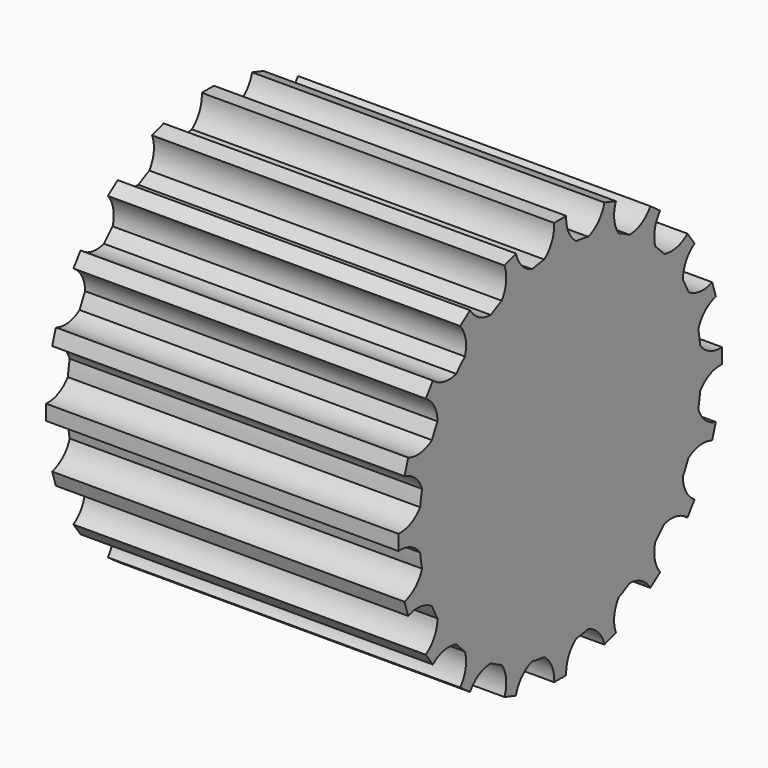
from build123d import *

# Parameters (mm, degrees)
F0_DEPTH = 152.4


with BuildPart() as f0:
    # F1 (on Right) → F0 (new body)
    with BuildSketch(Plane.YZ):
        with BuildLine():
            ThreePointArc((75.710623, -8.622155), (76.077557, -4.318016), (76.2, 0))
            ThreePointArc((76.2, 0), (76.077557, 4.318016), (75.710623, 8.622155))
            ThreePointArc((75.710623, 8.622155), (75.261852, 11.920306), (74.669474, 15.195713))
            ThreePointArc((74.669474, 15.195713), (72.470507, 23.547095), (69.340689, 31.596025))
            ThreePointArc((69.340689, 31.596025), (67.894697, 34.594076), (66.319156, 37.526118))
            ThreePointArc((66.319156, 37.526118), (61.647095, 44.789236), (56.183205, 51.477057))
            ThreePointArc((56.183205, 51.477057), (53.881537, 53.881537), (51.477057, 56.183205))
            ThreePointArc((51.477057, 56.183205), (44.789236, 61.647095), (37.526118, 66.319156))
            ThreePointArc((37.526118, 66.319156), (34.594076, 67.894697), (31.596025, 69.340689))
            ThreePointArc((31.596025, 69.340689), (23.547095, 72.470507), (15.195713, 74.669474))
            ThreePointArc((15.195713, 74.669474), (11.920306, 75.261852), (8.622155, 75.710623))
            ThreePointArc((8.622155, 75.710623), (0, 76.2), (-8.622155, 75.710623))
            ThreePointArc((-8.622155, 75.710623), (-11.920306, 75.261852), (-15.195713, 74.669474))
            ThreePointArc((-15.195713, 74.669474), (-23.547095, 72.470507), (-31.596025, 69.340689))
            ThreePointArc((-31.596025, 69.340689), (-34.594076, 67.894697), (-37.526118, 66.319156))
            ThreePointArc((-37.526118, 66.319156), (-44.789236, 61.647095), (-51.477057, 56.183205))
            ThreePointArc((-51.477057, 56.183205), (-53.881537, 53.881537), (-56.183205, 51.477057))
            ThreePointArc((-56.183205, 51.477057), (-61.647095, 44.789236), (-66.319156, 37.526118))
            ThreePointArc((-66.319156, 37.526118), (-67.894697, 34.594076), (-69.340689, 31.596025))
            ThreePointArc((-69.340689, 31.596025), (-72.470507, 23.547095), (-74.669474, 15.195713))
            ThreePointArc((-74.669474, 15.195713), (-75.261852, 11.920306), (-75.710623, 8.622155))
            ThreePointArc((-75.710623, 8.622155), (-76.2, 0), (-75.710623, -8.622155))
            ThreePointArc((-75.710623, -8.622155), (-75.261852, -11.920306), (-74.669474, -15.195713))
            ThreePointArc((-74.669474, -15.195713), (-72.470507, -23.547095), (-69.340689, -31.596025))
            ThreePointArc((-69.340689, -31.596025), (-67.894697, -34.594076), (-66.319156, -37.526118))
            ThreePointArc((-66.319156, -37.526118), (-61.647095, -44.789236), (-56.183205, -51.477057))
            ThreePointArc((-56.183205, -51.477057), (-53.881537, -53.881537), (-51.477057, -56.183205))
            ThreePointArc((-51.477057, -56.183205), (-44.789236, -61.647095), (-37.526118, -66.319156))
            ThreePointArc((-37.526118, -66.319156), (-34.594076, -67.894697), (-31.596025, -69.340689))
            ThreePointArc((-31.596025, -69.340689), (-23.547095, -72.470507), (-15.195713, -74.669474))
            ThreePointArc((-15.195713, -74.669474), (-11.920306, -75.261852), (-8.622155, -75.710623))
            ThreePointArc((-8.622155, -75.710623), (0, -76.2), (8.622155, -75.710623))
            ThreePointArc((8.622155, -75.710623), (11.920306, -75.261852), (15.195713, -74.669474))
            ThreePointArc((15.195713, -74.669474), (23.547095, -72.470507), (31.596025, -69.340689))
            ThreePointArc((31.596025, -69.340689), (34.594076, -67.894697), (37.526118, -66.319156))
            ThreePointArc((37.526118, -66.319156), (44.789236, -61.647095), (51.477057, -56.183205))
            ThreePointArc((51.477057, -56.183205), (53.881537, -53.881537), (56.183205, -51.477057))
            ThreePointArc((56.183205, -51.477057), (61.647095, -44.789236), (66.319156, -37.526118))
            ThreePointArc((66.319156, -37.526118), (67.894697, -34.594076), (69.340689, -31.596025))
            ThreePointArc((69.340689, -31.596025), (72.470507, -23.547095), (74.669474, -15.195713))
            ThreePointArc((74.669474, -15.195713), (75.261852, -11.920306), (75.710623, -8.622155))
        make_face()
        with BuildLine():
            ThreePointArc((-31.596025, 69.340689), (-23.547095, 72.470507), (-15.195713, 74.669474))
            ThreePointArc((-15.195713, 74.669474), (-20.764473, 78.314179), (-23.898246, 84.185671))
            Line((-23.898246, 84.185671), (-30.149009, 82.154676))
            ThreePointArc((-30.149009, 82.154676), (-29.233108, 75.562553), (-31.596025, 69.340689))
        make_face()
        with BuildLine():
            ThreePointArc((-51.477057, 56.183205), (-44.789236, 61.647095), (-37.526118, 66.319156))
            ThreePointArc((-37.526118, 66.319156), (-43.948599, 68.064635), (-48.743386, 72.680367))
            Line((-48.743386, 72.680367), (-54.060602, 68.817184))
            ThreePointArc((-54.060602, 68.817184), (-51.152451, 62.830731), (-51.477057, 56.183205))
        make_face()
        with BuildLine():
            ThreePointArc((-66.319156, 37.526118), (-61.647095, 44.789236), (-56.183205, 51.477057))
            ThreePointArc((-56.183205, 51.477057), (-62.830731, 51.152451), (-68.817184, 54.060602))
            Line((-68.817184, 54.060602), (-72.680367, 48.743386))
            ThreePointArc((-72.680367, 48.743386), (-68.064635, 43.948599), (-66.319156, 37.526118))
        make_face()
        with BuildLine():
            ThreePointArc((-74.669474, 15.195713), (-72.470507, 23.547095), (-69.340689, 31.596025))
            ThreePointArc((-69.340689, 31.596025), (-75.562553, 29.233108), (-82.154676, 30.149009))
            Line((-82.154676, 30.149009), (-84.185671, 23.898246))
            ThreePointArc((-84.185671, 23.898246), (-78.314179, 20.764473), (-74.669474, 15.195713))
        make_face()
        with BuildLine():
            ThreePointArc((-75.710623, -8.622155), (-76.2, 0), (-75.710623, 8.622155))
            ThreePointArc((-75.710623, 8.622155), (-80.897785, 4.452225), (-87.450296, 3.28622))
            Line((-87.450296, 3.28622), (-87.450296, -3.28622))
            ThreePointArc((-87.450296, -3.28622), (-80.897785, -4.452225), (-75.710623, -8.622155))
        make_face()
        with BuildLine():
            ThreePointArc((-82.154676, -30.149009), (-75.562553, -29.233108), (-69.340689, -31.596025))
            ThreePointArc((-69.340689, -31.596025), (-72.470507, -23.547095), (-74.669474, -15.195713))
            ThreePointArc((-74.669474, -15.195713), (-78.314179, -20.764473), (-84.185671, -23.898246))
            Line((-84.185671, -23.898246), (-82.154676, -30.149009))
        make_face()
        with BuildLine():
            ThreePointArc((-68.817184, -54.060602), (-62.830731, -51.152451), (-56.183205, -51.477057))
            ThreePointArc((-56.183205, -51.477057), (-61.647095, -44.789236), (-66.319156, -37.526118))
            ThreePointArc((-66.319156, -37.526118), (-68.064635, -43.948599), (-72.680367, -48.743386))
            Line((-72.680367, -48.743386), (-68.817184, -54.060602))
        make_face()
        with BuildLine():
            ThreePointArc((-48.743386, -72.680367), (-43.948599, -68.064635), (-37.526118, -66.319156))
            ThreePointArc((-37.526118, -66.319156), (-44.789236, -61.647095), (-51.477057, -56.183205))
            ThreePointArc((-51.477057, -56.183205), (-51.152451, -62.830731), (-54.060602, -68.817184))
            Line((-54.060602, -68.817184), (-48.743386, -72.680367))
        make_face()
        with BuildLine():
            ThreePointArc((-23.898246, -84.185671), (-20.764473, -78.314179), (-15.195713, -74.669474))
            ThreePointArc((-15.195713, -74.669474), (-23.547095, -72.470507), (-31.596025, -69.340689))
            ThreePointArc((-31.596025, -69.340689), (-29.233108, -75.562553), (-30.149009, -82.154676))
            Line((-30.149009, -82.154676), (-23.898246, -84.185671))
        make_face()
        with BuildLine():
            ThreePointArc((3.28622, -87.450296), (4.452225, -80.897785), (8.622155, -75.710623))
            ThreePointArc((8.622155, -75.710623), (0, -76.2), (-8.622155, -75.710623))
            ThreePointArc((-8.622155, -75.710623), (-4.452225, -80.897785), (-3.28622, -87.450296))
            Line((-3.28622, -87.450296), (3.28622, -87.450296))
        make_face()
        with BuildLine():
            ThreePointArc((30.149009, -82.154676), (29.233108, -75.562553), (31.596025, -69.340689))
            ThreePointArc((31.596025, -69.340689), (23.547095, -72.470507), (15.195713, -74.669474))
            ThreePointArc((15.195713, -74.669474), (20.764473, -78.314179), (23.898246, -84.185671))
            Line((23.898246, -84.185671), (30.149009, -82.154676))
        make_face()
        with BuildLine():
            ThreePointArc((54.060602, -68.817184), (51.152451, -62.830731), (51.477057, -56.183205))
            ThreePointArc((51.477057, -56.183205), (44.789236, -61.647095), (37.526118, -66.319156))
            ThreePointArc((37.526118, -66.319156), (43.948599, -68.064635), (48.743386, -72.680367))
            Line((48.743386, -72.680367), (54.060602, -68.817184))
        make_face()
        with BuildLine():
            ThreePointArc((72.680367, -48.743386), (68.064635, -43.948599), (66.319156, -37.526118))
            ThreePointArc((66.319156, -37.526118), (61.647095, -44.789236), (56.183205, -51.477057))
            ThreePointArc((56.183205, -51.477057), (62.830731, -51.152451), (68.817184, -54.060602))
            Line((68.817184, -54.060602), (72.680367, -48.743386))
        make_face()
        with BuildLine():
            ThreePointArc((84.185671, -23.898246), (78.314179, -20.764473), (74.669474, -15.195713))
            ThreePointArc((74.669474, -15.195713), (72.470507, -23.547095), (69.340689, -31.596025))
            ThreePointArc((69.340689, -31.596025), (75.562553, -29.233108), (82.154676, -30.149009))
            Line((82.154676, -30.149009), (84.185671, -23.898246))
        make_face()
        with BuildLine():
            ThreePointArc((75.710623, 8.622155), (76.077557, 4.318016), (76.2, 0))
            ThreePointArc((76.2, 0), (76.077557, -4.318016), (75.710623, -8.622155))
            ThreePointArc((75.710623, -8.622155), (80.897785, -4.452225), (87.450296, -3.28622))
            Line((87.450296, -3.28622), (87.450296, 3.28622))
            ThreePointArc((87.450296, 3.28622), (80.897785, 4.452225), (75.710623, 8.622155))
        make_face()
        with BuildLine():
            ThreePointArc((69.340689, 31.596025), (72.470507, 23.547095), (74.669474, 15.195713))
            ThreePointArc((74.669474, 15.195713), (78.314179, 20.764473), (84.185671, 23.898246))
            Line((84.185671, 23.898246), (82.154676, 30.149009))
            ThreePointArc((82.154676, 30.149009), (75.562553, 29.233108), (69.340689, 31.596025))
        make_face()
        with BuildLine():
            ThreePointArc((56.183205, 51.477057), (61.647095, 44.789236), (66.319156, 37.526118))
            ThreePointArc((66.319156, 37.526118), (68.064635, 43.948599), (72.680367, 48.743386))
            Line((72.680367, 48.743386), (68.817184, 54.060602))
            ThreePointArc((68.817184, 54.060602), (62.830731, 51.152451), (56.183205, 51.477057))
        make_face()
        with BuildLine():
            ThreePointArc((37.526118, 66.319156), (44.789236, 61.647095), (51.477057, 56.183205))
            ThreePointArc((51.477057, 56.183205), (51.152451, 62.830731), (54.060602, 68.817184))
            Line((54.060602, 68.817184), (48.743386, 72.680367))
            ThreePointArc((48.743386, 72.680367), (43.948599, 68.064635), (37.526118, 66.319156))
        make_face()
        with BuildLine():
            ThreePointArc((15.195713, 74.669474), (23.547095, 72.470507), (31.596025, 69.340689))
            ThreePointArc((31.596025, 69.340689), (29.233108, 75.562553), (30.149009, 82.154676))
            Line((30.149009, 82.154676), (23.898246, 84.185671))
            ThreePointArc((23.898246, 84.185671), (20.764473, 78.314179), (15.195713, 74.669474))
        make_face()
        with BuildLine():
            ThreePointArc((-8.622155, 75.710623), (0, 76.2), (8.622155, 75.710623))
            ThreePointArc((8.622155, 75.710623), (4.452225, 80.897785), (3.28622, 87.450296))
            Line((3.28622, 87.450296), (-3.28622, 87.450296))
            ThreePointArc((-3.28622, 87.450296), (-4.452225, 80.897785), (-8.622155, 75.710623))
        make_face()
    extrude(amount=-F0_DEPTH)


solid = f0.part
